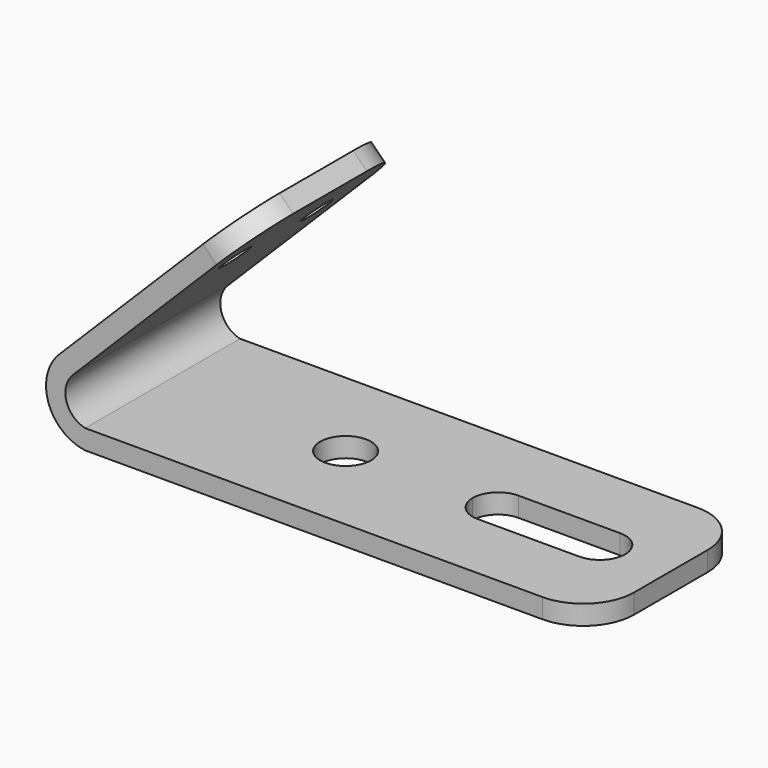
from build123d import *

# Parameters (mm, degrees)
F1_DEPTH = 483.87
F2_R     = 38.1
F3_DEPTH = 228.6
F4_R     = 63.5
F5_DEPTH = 421.64
F6_R     = 127


with BuildPart() as f1:
    # F0 (on Front) → F1 (new body)
    with BuildSketch(Plane.XZ):
        with BuildLine():
            Line((-1270, 0), (0, 0))
            Line((0, 0), (0, 48.9509105682))
            Line((0, 48.9509105682), (-1270, 48.9509105682))
            ThreePointArc((-1270, 48.9509105682), (-1316.9249965526, 93.2684088469), (-1300.8141245282, 155.7698948912))
            Line((-1300.8141245282, 155.7698948912), (-851.8013184748, 604.7827009446))
            Line((-851.8013184748, 604.7827009446), (-885.9262917348, 638.9076742047))
            Line((-885.9262917348, 638.9076742047), (-1334.9390977883, 189.8948681512))
            ThreePointArc((-1334.9390977883, 189.8948681512), (-1361.6603829738, 74.7057108532), (-1270, 0))
        make_face()
    extrude(amount=-F1_DEPTH)

    # F2 (on face) → F3 (cut)
    with BuildSketch(Plane(origin=(-762.4169829698, 0, 762.4169829698), x_dir=(0, -1, 0), z_dir=(-0.7071067812, 0, 0.7071067812))):
        with Locations((-369.57, -365.1685395349)):
            Circle(F2_R)
        with Locations((-114.3, -365.1685395349)):
            Circle(F2_R)
    extrude(amount=-F3_DEPTH, mode=Mode.SUBTRACT)

    # F4 (on face) → F5 (cut)
    with BuildSketch(Plane.XY.offset(48.9509105682)):
        with BuildLine():
            ThreePointArc((-368.3, 241.935), (-386.8987193947, 286.8362806053), (-431.8, 305.435))
            ThreePointArc((-431.8, 305.435), (-476.7012806053, 286.8362806053), (-495.3, 241.935))
            ThreePointArc((-495.3, 241.935), (-476.7012806053, 197.0337193947), (-431.8, 178.435))
            ThreePointArc((-431.8, 178.435), (-386.8987193947, 197.0337193947), (-368.3, 241.935))
        make_face()
        with BuildLine():
            ThreePointArc((-177.8, 178.435), (-241.3, 241.935), (-177.8, 305.435))
            Line((-177.8, 305.435), (-431.8, 305.435))
            ThreePointArc((-431.8, 305.435), (-386.8987193947, 286.8362806053), (-368.3, 241.935))
            ThreePointArc((-368.3, 241.935), (-386.8987193947, 197.0337193947), (-431.8, 178.435))
            Line((-431.8, 178.435), (-177.8, 178.435))
        make_face()
        with BuildLine():
            ThreePointArc((-177.8, 178.435), (-132.8987193947, 197.0337193947), (-114.3, 241.935))
            ThreePointArc((-114.3, 241.935), (-132.8987193947, 286.8362806053), (-177.8, 305.435))
            ThreePointArc((-177.8, 305.435), (-241.3, 241.935), (-177.8, 178.435))
        make_face()
        with Locations((-812.8, 241.935)):
            Circle(F4_R)
    extrude(amount=-F5_DEPTH, mode=Mode.SUBTRACT)

    # F6
    f6_edges = [f1.edges().sort_by_distance(p)[0] for p in [
        (-868.863805, 0, 621.845188),
        (-868.863805, 483.87, 621.845188),
        (0, 0, 24.475455),
        (0, 483.87, 24.475455),
    ]]
    fillet(f6_edges, radius=F6_R)


solid = f1.part
